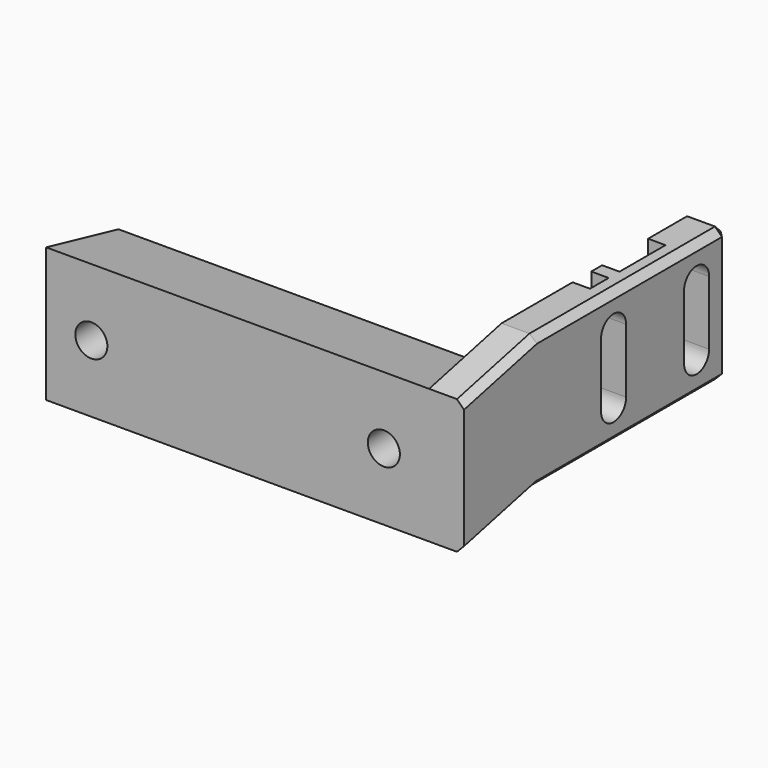
from build123d import *

# Parameters (mm, degrees)
PAD_DEPTH            = 55
SKETCH001_R          = 2.3
POCKET_DEPTH         = 13.001
PAD013_DEPTH         = 5
SKETCH023_W          = 7.25
SKETCH023_H          = 3.35
POCKET009_DEPTH      = 2.5
CHAMFER005_SIZE      = 1
BODY_PITCH_ANGLE     = 90
BODY_PLACEMENT_ANGLE = 90


with BuildPart() as part:
    # Sketch → Pad (new body)
    with BuildSketch(Plane.XZ):
        Polygon((0, 0), (19.3, 0), (16.3, 13), (3, 13), align=None)
    extrude(amount=PAD_DEPTH)

    # Sketch001 (on Face3 of Pad) → Pocket (cut, through all)
    with BuildSketch(Plane(origin=(0, 0, 13), x_dir=(-1, 0, 0), z_dir=(0, 0, 1))):
        with Locations((-9.65, 6.5)):
            Circle(SKETCH001_R)
        with Locations((-9.65, 48.5)):
            Circle(SKETCH001_R)
    extrude(amount=-POCKET_DEPTH, mode=Mode.SUBTRACT)

    # Sketch022 (on Face4 of Pocket) → Pad013 (join)
    with BuildSketch(Plane.XZ.offset(55)):
        Polygon((16.3, 13), (19.3, 0), (0, 0), (-3, 13), (-3, 47.3), (16.3, 47.3), (16.3, 44.3), (16.3, 24.3), (16.3, 18.3), align=None)
        with BuildLine():
            ThreePointArc((2.05, 44), (-0.2, 41.75), (2.05, 39.5))
            Line((2.05, 39.5), (11.25, 39.5))
            ThreePointArc((11.25, 39.5), (13.5, 41.75), (11.25, 44))
            Line((2.05, 44), (11.25, 44))
        make_face(mode=Mode.SUBTRACT)
        with BuildLine():
            ThreePointArc((2.05, 29.1), (-0.2, 26.85), (2.05, 24.6))
            Line((2.05, 24.6), (11.25, 24.6))
            ThreePointArc((11.25, 24.6), (13.5, 26.85), (11.25, 29.1))
            Line((2.05, 29.1), (11.25, 29.1))
        make_face(mode=Mode.SUBTRACT)
    extrude(amount=PAD013_DEPTH)

    # Sketch023 (on Face6 of Pad013) → Pocket009 (cut)
    with BuildSketch(Plane(origin=(0, -55, 0), x_dir=(1, 0, 0), z_dir=(0, 1, 0))):
        Polygon((10.25, -30.55), (10.25, -38.05), (3.05, -38.05), (3.05, -39.3), (-3, -39.3), (-3, -31.05), (0.85, -31.05), (0.85, -30.55), align=None)
        with Locations((0.625, -27.425)):
            Rectangle(SKETCH023_W, SKETCH023_H)
    extrude(amount=-POCKET009_DEPTH, mode=Mode.SUBTRACT)

    # Chamfer005
    chamfer005_edges = [part.edges().sort_by_distance(p)[0] for p in [
        (16.3, -57.5, 47.3),
        (6.65, -60, 47.3),
        (6.65, -55, 47.3),
        (-3, -57.5, 47.3),
        (-3, -60, 30.15),
        (16.3, -60, 30.15),
        (-1.5, -60, 6.5),
        (17.8, -60, 6.5),
        (16.3, -55, 30.15),
    ]]
    chamfer(chamfer005_edges, length=CHAMFER005_SIZE)


with BuildPart() as part_1:
    # Body pitch: moved
    add(part.part.rotate(Axis((0, 0, 0), (0, 1, 0)), BODY_PITCH_ANGLE))


with BuildPart() as part_2:
    # Body placement: moved
    add(part_1.part.moved(Location((-26, -25, -23))).rotate(Axis((-26, -25, -23), (0, 0, 1)), BODY_PLACEMENT_ANGLE))


solid = part_2.part
